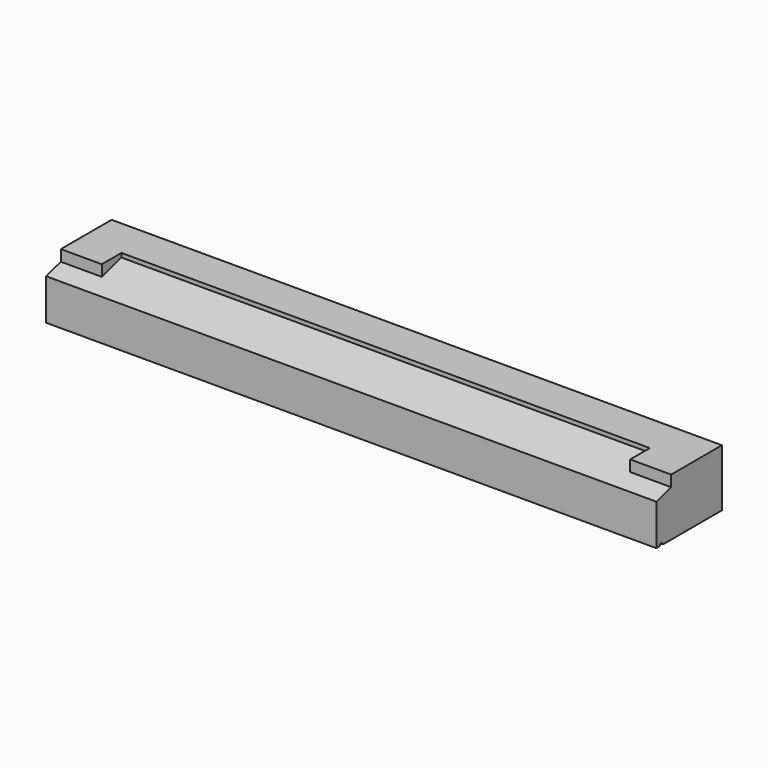
from build123d import *

# Parameters (mm, degrees)
F1_DEPTH = 745
F2_W     = 100
F2_H     = 60
F4_W     = 100
F4_H     = 60


with BuildPart() as f1:
    # F0 (on Right) → F1 (new body, symmetric)
    with BuildSketch(Plane.YZ):
        with BuildLine():
            Line((0, -140), (0, 0))
            Line((0, 0), (-95, 0))
            Line((-95, 0), (-95, -10))
            Line((-95, -10), (-200, -40))
            Line((-200, -40), (-200, -140))
            Line((-200, -140), (-190, -140))
            ThreePointArc((-190, -140), (-185, -135), (-180, -140))
            Line((-180, -140), (0, -140))
        make_face()
    extrude(amount=F1_DEPTH, both=True)

    # F2 (on face) → F3 (join, up to the next surface of F1)
    with BuildSketch(Plane.XY):
        with Locations((-695, -125)):
            Rectangle(F2_W, F2_H)
    extrude(until=Until.NEXT, dir=(0, 0, -1))

    # F4 (on face) → F5 (join, up to the next surface of F1)
    with BuildSketch(Plane.XY):
        with Locations((695, -125)):
            Rectangle(F4_W, F4_H)
    extrude(until=Until.NEXT, dir=(0, 0, -1))


solid = f1.part
